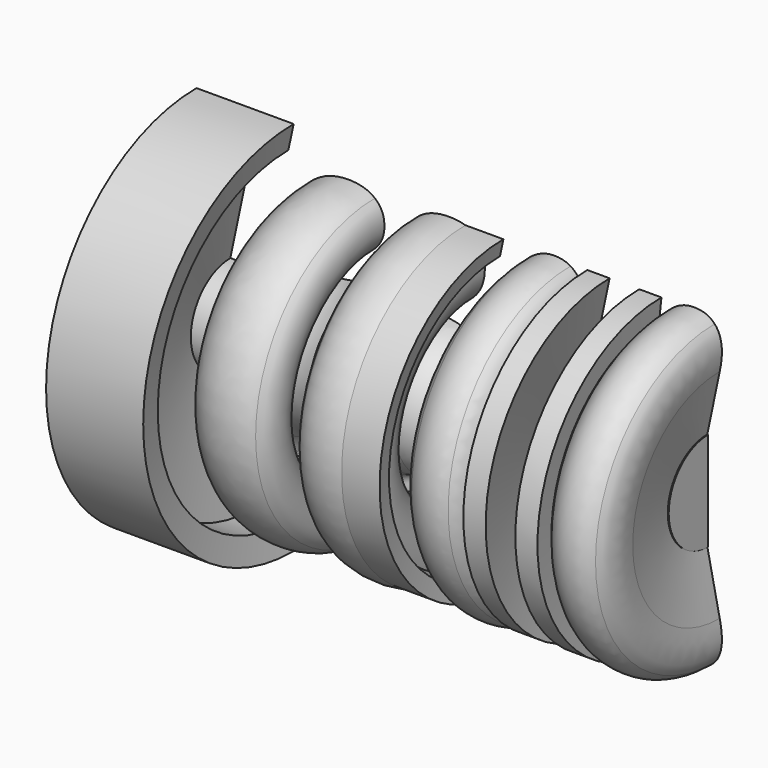
from build123d import *

# Parameters (mm, degrees)
F1_ANGLE = 180
F3_ANGLE = 180


with BuildPart() as f1:
    # F0 (on Front) → F1 (revolve)
    with BuildSketch(Plane.XZ):
        with BuildLine():
            Line((-3.9438154354, 0.9828127662), (-3.0748019926, 0))
            Line((-3.0748019926, 0), (9.5583545044, 0))
            Line((9.5583545044, 0), (11.0005527324, 1.0379456109))
            add(Edge.make_bspline(
                [(11.0005527324, 1.0379456109), (7.5266351508, 0.0315929913), (2.8494073655, 0.0315929913)],
                knots=[0.4430428114, 0.4430428114, 0.4430428114, 1, 1, 1], degree=2))
            add(Edge.make_bspline(
                [(2.8494073655, 0.0315929913), (-1.123578729, 0.0315929913), (-3.9438154354, 0.9828127662)],
                knots=[0, 0, 0, 0.6594246521, 0.6594246521, 0.6594246521], degree=2))
        make_face()
        with BuildLine():
            add(Edge.make_bspline(
                [(-3.9438154354, 0.9828127662), (-5.4003929149, 1.474092558), (-6.5494804197, 2.2191053358)],
                knots=[0.6594246521, 0.6594246521, 0.6594246521, 1, 1, 1], degree=2))
            Line((-3.9438154354, 0.9828127662), (-9.9082419355, 7.7282947327))
            add(Edge.make_bspline(
                [(-6.5494804197, 2.2191053358), (-9.6969934085, 4.2598005703), (-9.9082419355, 7.7282947327)],
                knots=[0, 0, 0, 0.9328839856, 0.9328839856, 0.9328839856], degree=2))
        make_face()
        with BuildLine():
            Line((-9.9082419355, 7.7282947327), (-3.9438154354, 0.9828127662))
            add(Edge.make_bspline(
                [(2.8494073655, 0.0315929913), (-1.123578729, 0.0315929913), (-3.9438154354, 0.9828127662)],
                knots=[0, 0, 0, 0.6594246521, 0.6594246521, 0.6594246521], degree=2))
            add(Edge.make_bspline(
                [(11.0005527324, 1.0379456109), (7.5266351508, 0.0315929913), (2.8494073655, 0.0315929913)],
                knots=[0.4430428114, 0.4430428114, 0.4430428114, 1, 1, 1], degree=2))
            Line((11.0005527324, 1.0379456109), (18.8795879243, 6.7084629062))
            add(Edge.make_bspline(
                [(20.2846222807, 12.6375963324), (20.2846222807, 9.226300747), (18.8795879243, 6.7084629062)],
                knots=[0, 0, 0, 0.5576181576, 0.5576181576, 0.5576181576], degree=2))
            add(Edge.make_bspline(
                [(18.1249172965, 17.953436712), (20.2846222807, 16.1135163714), (20.2846222807, 12.6375963324)],
                knots=[0, 0, 0, 1, 1, 1], degree=2))
            add(Edge.make_bspline(
                [(11.2472301795, 20.3958498593), (15.9652123123, 19.7933570525), (18.1249172965, 17.953436712)],
                knots=[0, 0, 0, 1, 1, 1], degree=2))
            Line((11.2472301795, 20.3958498593), (7.2800467751, 20.9241897052))
            add(Edge.make_bspline(
                [(4.7032313863, 21.5869317926), (5.574528676, 21.1559177078), (7.2800467751, 20.9241897052)],
                knots=[0, 0, 0, 1, 1, 1], degree=2))
            add(Edge.make_bspline(
                [(3.8319340965, 23.0097417286), (3.8319340965, 22.0179458775), (4.7032313863, 21.5869317926)],
                knots=[0, 0, 0, 1, 1, 1], degree=2))
            add(Edge.make_bspline(
                [(6.2697126838, 25.2621379138), (3.8319340965, 24.4835318251), (3.8319340965, 23.0097417286)],
                knots=[0, 0, 0, 1, 1, 1], degree=2))
            add(Edge.make_bspline(
                [(9.1338707959, 24.9747951905), (7.4283526968, 24.9747951905), (6.2697126838, 25.2621379138)],
                knots=[0, 0, 0, 1, 1, 1], degree=2))
            add(Edge.make_bspline(
                [(18.6625262625, 28.2653328274), (15.1587988633, 24.9747951905), (9.1338707959, 24.9747951905)],
                knots=[0, 0, 0, 1, 1, 1], degree=2))
            add(Edge.make_bspline(
                [(22.1662536618, 37.2007646074), (22.1662536618, 31.5558704642), (18.6625262625, 28.2653328274)],
                knots=[0, 0, 0, 1, 1, 1], degree=2))
            add(Edge.make_bspline(
                [(21.7027976566, 40.6210699257), (22.1662536618, 39.1102033488), (22.1662536618, 37.2007646074)],
                knots=[0, 0, 0, 1, 1, 1], degree=2))
            Line((21.7027976566, 40.6210699257), (26.745198993, 41.807517299))
            Line((26.745198993, 41.807517299), (27.7555330843, 46.6181906328))
            Line((27.7555330843, 46.6181906328), (16.3174388763, 46.6181906328))
            add(Edge.make_bspline(
                [(11.5067655424, 47.2762981602), (13.9167367694, 47.2762981602), (16.3174388763, 46.6181906328)],
                knots=[0, 0, 0, 1, 1, 1], degree=2))
            add(Edge.make_bspline(
                [(1.6166143917, 43.9023384424), (5.2501094724, 47.2762981602), (11.5067655424, 47.2762981602)],
                knots=[0, 0, 0, 1, 1, 1], degree=2))
            add(Edge.make_bspline(
                [(-2.0168806889, 34.7629860201), (-2.0168806889, 40.5283787247), (1.6166143917, 43.9023384424)],
                knots=[0, 0, 0, 1, 1, 1], degree=2))
            add(Edge.make_bspline(
                [(-1.1177760389, 30.3323466105), (-2.0168806889, 32.158363271), (-2.0168806889, 34.7629860201)],
                knots=[0, 0, 0, 1, 1, 1], degree=2))
            add(Edge.make_bspline(
                [(1.6629599922, 27.0881545742), (-0.2186713888, 28.5063299501), (-1.1177760389, 30.3323466105)],
                knots=[0, 0, 0, 1, 1, 1], degree=2))
            add(Edge.make_bspline(
                [(-2.5822970153, 24.2379001423), (-1.2938893209, 25.725593919), (1.6629599922, 27.0881545742)],
                knots=[0, 0, 0, 1, 1, 1], degree=2))
            add(Edge.make_bspline(
                [(-3.8707047097, 20.6924617026), (-3.8707047097, 22.7502063656), (-2.5822970153, 24.2379001423)],
                knots=[0, 0, 0, 1, 1, 1], degree=2))
            add(Edge.make_bspline(
                [(-1.7295379657, 16.8365077395), (-3.8707047097, 18.1990683947), (-3.8707047097, 20.6924617026)],
                knots=[0, 0, 0, 1, 1, 1], degree=2))
            add(Edge.make_bspline(
                [(-7.9398484352, 13.3188766601), (-5.956256733, 15.4461397239), (-1.7295379657, 16.8365077395)],
                knots=[0, 0, 0, 1, 1, 1], degree=2))
            add(Edge.make_bspline(
                [(-9.9234401375, 8.2347642832), (-9.9234401375, 11.1916135963), (-7.9398484352, 13.3188766601)],
                knots=[0, 0, 0, 1, 1, 1], degree=2))
            add(Edge.make_bspline(
                [(-9.9082419355, 7.7282947327), (-9.9234401375, 7.9778343407), (-9.9234401375, 8.2347642832)],
                knots=[0.9328839856, 0.9328839856, 0.9328839856, 1, 1, 1], degree=2))
        make_face()
        with BuildLine():
            add(Edge.make_bspline(
                [(3.9802400182, 14.1113864289), (0.9028921437, 13.7035451444), (-0.6728582739, 12.4614830505)],
                knots=[0, 0, 0, 1, 1, 1], degree=2))
            Line((3.9802400182, 14.1113864289), (7.2800467751, 13.7035451444))
            add(Edge.make_bspline(
                [(11.2611338597, 12.6932110531), (10.3203181692, 13.3049729799), (7.2800467751, 13.7035451444)],
                knots=[0, 0, 0, 1, 1, 1], degree=2))
            add(Edge.make_bspline(
                [(12.2019495502, 10.9598855937), (12.2019495502, 12.0814491262), (11.2611338597, 12.6932110531)],
                knots=[0, 0, 0, 1, 1, 1], degree=2))
            add(Edge.make_bspline(
                [(9.9727261653, 7.2754103524), (12.2019495502, 8.577721727), (12.2019495502, 10.9598855937)],
                knots=[0, 0, 0, 1, 1, 1], degree=2))
            add(Edge.make_bspline(
                [(3.3684780913, 5.9730989778), (7.7435027803, 5.9730989778), (9.9727261653, 7.2754103524)],
                knots=[0, 0, 0, 1, 1, 1], degree=2))
            add(Edge.make_bspline(
                [(-2.2486086915, 9.3007130951), (-2.2486086915, 5.9730989778), (3.3684780913, 5.9730989778)],
                knots=[0, 0, 0, 1, 1, 1], degree=2))
            add(Edge.make_bspline(
                [(-0.6728582739, 12.4614830505), (-2.2486086915, 11.2194209566), (-2.2486086915, 9.3007130951)],
                knots=[0, 0, 0, 1, 1, 1], degree=2))
        make_face(mode=Mode.SUBTRACT)
        with BuildLine():
            add(Edge.make_bspline(
                [(11.1916154589, 41.7519025784), (8.9577575139, 41.7519025784), (7.5812931785, 39.5319483135)],
                knots=[0, 0, 0, 1, 1, 1], degree=2))
            add(Edge.make_bspline(
                [(14.055773571, 38.3594046204), (14.055773571, 41.7519025784), (11.1916154589, 41.7519025784)],
                knots=[0, 0, 0, 1, 1, 1], degree=2))
            add(Edge.make_bspline(
                [(12.7117511559, 32.7515869576), (14.055773571, 34.9669066624), (14.055773571, 38.3594046204)],
                knots=[0, 0, 0, 1, 1, 1], degree=2))
            add(Edge.make_bspline(
                [(9.1894855165, 30.5362672528), (11.3677287409, 30.5362672528), (12.7117511559, 32.7515869576)],
                knots=[0, 0, 0, 1, 1, 1], degree=2))
            add(Edge.make_bspline(
                [(6.2048288431, 33.9843799314), (6.2048288431, 30.5362672528), (9.1894855165, 30.5362672528)],
                knots=[0, 0, 0, 1, 1, 1], degree=2))
            add(Edge.make_bspline(
                [(7.5812931785, 39.5319483135), (6.2048288431, 37.3119940487), (6.2048288431, 33.9843799314)],
                knots=[0, 0, 0, 1, 1, 1], degree=2))
        make_face(mode=Mode.SUBTRACT)
        with BuildLine():
            Line((18.8795879243, 6.7084629062), (11.0005527324, 1.0379456109))
            add(Edge.make_bspline(
                [(15.7659262301, 3.2757850277), (13.7639504282, 1.8384690673), (11.0005527324, 1.0379456109)],
                knots=[0, 0, 0, 0.4430428114, 0.4430428114, 0.4430428114], degree=2))
            add(Edge.make_bspline(
                [(18.8795879243, 6.7084629062), (17.7649153142, 4.7109566778), (15.7659262301, 3.2757850277)],
                knots=[0.5576181576, 0.5576181576, 0.5576181576, 1, 1, 1], degree=2))
        make_face()
        Polygon((-63.4340704964, 14.2874997109), (-54.6005990376, 14.2874997109), (-47.2409176752, 49.1671986614), (-37.0170782007, 49.1671986614), (-35.4227895429, 56.638109465), (-64.6761325903, 56.638109465), (-66.2704212482, 49.1671986614), (-56.0743891341, 49.1671986614), align=None)
        with BuildLine():
            add(Edge.make_bspline(
                [(-24.2349615777, 13.7035451444), (-30.3247734858, 13.7035451444), (-33.6848295234, 16.9801791011)],
                knots=[0, 0, 0, 1, 1, 1], degree=2))
            add(Edge.make_bspline(
                [(-12.9451732913, 16.1969384523), (-17.922690787, 13.7035451444), (-24.2349615777, 13.7035451444)],
                knots=[0, 0, 0, 1, 1, 1], degree=2))
            Line((-12.9451732913, 16.1969384523), (-12.9451732913, 22.778013726))
            add(Edge.make_bspline(
                [(-17.922690787, 20.8361330642), (-15.864946124, 21.3876457104), (-12.9451732913, 22.778013726)],
                knots=[0, 0, 0, 1, 1, 1], degree=2))
            add(Edge.make_bspline(
                [(-22.5016361182, 20.284620418), (-19.98043545, 20.284620418), (-17.922690787, 20.8361330642)],
                knots=[0, 0, 0, 1, 1, 1], degree=2))
            add(Edge.make_bspline(
                [(-26.7747004861, 21.8047561151), (-25.2823721494, 20.284620418), (-22.5016361182, 20.284620418)],
                knots=[0, 0, 0, 1, 1, 1], degree=2))
            add(Edge.make_bspline(
                [(-28.2670288228, 25.9573219215), (-28.2670288228, 23.3248918121), (-26.7747004861, 21.8047561151)],
                knots=[0, 0, 0, 1, 1, 1], degree=2))
            Line((-28.2670288228, 25.9573219215), (-28.2670288228, 26.5412764881))
            Line((-28.2670288228, 26.5412764881), (-28.2114141022, 27.1530384149))
            Line((-28.2114141022, 27.1530384149), (-26.7283548856, 27.1530384149))
            add(Edge.make_bspline(
                [(-12.9127313709, 30.0913494878), (-17.746577505, 27.1530384149), (-26.7283548856, 27.1530384149)],
                knots=[0, 0, 0, 1, 1, 1], degree=2))
            add(Edge.make_bspline(
                [(-8.0788852368, 38.4428267013), (-8.0788852368, 33.0296605607), (-12.9127313709, 30.0913494878)],
                knots=[0, 0, 0, 1, 1, 1], degree=2))
            add(Edge.make_bspline(
                [(-10.9430433489, 44.9173070938), (-8.0788852368, 42.5583160274), (-8.0788852368, 38.4428267013)],
                knots=[0, 0, 0, 1, 1, 1], degree=2))
            add(Edge.make_bspline(
                [(-18.9422939984, 47.2762981602), (-13.8072014609, 47.2762981602), (-10.9430433489, 44.9173070938)],
                knots=[0, 0, 0, 1, 1, 1], degree=2))
            add(Edge.make_bspline(
                [(-28.1789721818, 44.6855790912), (-24.0959247761, 47.2762981602), (-18.9422939984, 47.2762981602)],
                knots=[0, 0, 0, 1, 1, 1], degree=2))
            add(Edge.make_bspline(
                [(-34.6534525743, 37.1544190069), (-32.2620195875, 42.0948600222), (-28.1789721818, 44.6855790912)],
                knots=[0, 0, 0, 1, 1, 1], degree=2))
            add(Edge.make_bspline(
                [(-37.044885561, 26.2261264046), (-37.044885561, 32.2139779916), (-34.6534525743, 37.1544190069)],
                knots=[0, 0, 0, 1, 1, 1], degree=2))
            add(Edge.make_bspline(
                [(-33.6848295234, 16.9801791011), (-37.044885561, 20.2568130577), (-37.044885561, 26.2261264046)],
                knots=[0, 0, 0, 1, 1, 1], degree=2))
        make_face()
        with BuildLine():
            add(Edge.make_bspline(
                [(-19.4891720845, 40.9918347298), (-22.0381801131, 40.9918347298), (-24.2952108583, 38.6745547039)],
                knots=[0, 0, 0, 1, 1, 1], degree=2))
            add(Edge.make_bspline(
                [(-16.4489006905, 38.238906059), (-16.4489006905, 40.9918347298), (-19.4891720845, 40.9918347298)],
                knots=[0, 0, 0, 1, 1, 1], degree=2))
            add(Edge.make_bspline(
                [(-18.9515631185, 34.4339322564), (-16.4489006905, 35.8382039522), (-16.4489006905, 38.238906059)],
                knots=[0, 0, 0, 1, 1, 1], degree=2))
            add(Edge.make_bspline(
                [(-25.9497487968, 33.0296605607), (-21.4542255465, 33.0296605607), (-18.9515631185, 34.4339322564)],
                knots=[0, 0, 0, 1, 1, 1], degree=2))
            Line((-25.9497487968, 33.0296605607), (-27.2474256114, 33.0296605607))
            add(Edge.make_bspline(
                [(-24.2952108583, 38.6745547039), (-26.5522416036, 36.357274678), (-27.2474256114, 33.0296605607)],
                knots=[0, 0, 0, 1, 1, 1], degree=2))
        make_face(mode=Mode.SUBTRACT)
        with BuildLine():
            add(Edge.make_bspline(
                [(37.2656503108, 13.7035451444), (33.001855063, 13.7035451444), (30.5548073557, 16.7901621389)],
                knots=[0, 0, 0, 1, 1, 1], degree=2))
            add(Edge.make_bspline(
                [(46.5069630542, 18.4864111179), (42.6232017307, 13.7035451444), (37.2656503108, 13.7035451444)],
                knots=[0, 0, 0, 1, 1, 1], degree=2))
            Line((46.5069630542, 18.4864111179), (46.6181924955, 18.4864111179))
            Line((46.6181924955, 18.4864111179), (46.2103512109, 14.2874997109))
            Line((46.2103512109, 14.2874997109), (52.8470412052, 14.2874997109))
            Line((52.8470412052, 14.2874997109), (59.7432665624, 46.6738053534))
            Line((59.7432665624, 46.6738053534), (53.0231544872, 46.6738053534))
            Line((53.0231544872, 46.6738053534), (51.3732511087, 42.5305086671))
            Line((51.3732511087, 42.5305086671), (51.1415231061, 42.5305086671))
            add(Edge.make_bspline(
                [(47.9668494706, 46.0620434266), (50.0106904534, 44.847788693), (51.1415231061, 42.5305086671)],
                knots=[0, 0, 0, 1, 1, 1], degree=2))
            add(Edge.make_bspline(
                [(43.1144650962, 47.2762981602), (45.9230084877, 47.2762981602), (47.9668494706, 46.0620434266)],
                knots=[0, 0, 0, 1, 1, 1], degree=2))
            add(Edge.make_bspline(
                [(35.6713616529, 44.4260437283), (39.0638596109, 47.2762981602), (43.1144650962, 47.2762981602)],
                knots=[0, 0, 0, 1, 1, 1], degree=2))
            add(Edge.make_bspline(
                [(30.1933116716, 36.3758129182), (32.278863695, 41.5757892964), (35.6713616529, 44.4260437283)],
                knots=[0, 0, 0, 1, 1, 1], degree=2))
            add(Edge.make_bspline(
                [(28.1077596483, 25.4382511957), (28.1077596483, 31.17583654), (30.1933116716, 36.3758129182)],
                knots=[0, 0, 0, 1, 1, 1], degree=2))
            add(Edge.make_bspline(
                [(30.5548073557, 16.7901621389), (28.1077596483, 19.8767791335), (28.1077596483, 25.4382511957)],
                knots=[0, 0, 0, 1, 1, 1], degree=2))
        make_face()
        with BuildLine():
            add(Edge.make_bspline(
                [(40.6859556291, 20.7480764232), (42.6788164514, 20.7480764232), (44.5326404721, 22.689957085)],
                knots=[0, 0, 0, 1, 1, 1], degree=2))
            add(Edge.make_bspline(
                [(37.914488718, 22.0225804375), (38.8877463289, 20.7480764232), (40.6859556291, 20.7480764232)],
                knots=[0, 0, 0, 1, 1, 1], degree=2))
            add(Edge.make_bspline(
                [(36.9412311071, 25.8460924803), (36.9412311071, 23.2970844518), (37.914488718, 22.0225804375)],
                knots=[0, 0, 0, 1, 1, 1], degree=2))
            add(Edge.make_bspline(
                [(38.002545359, 32.6218192761), (36.9412311071, 29.2015139579), (36.9412311071, 25.8460924803)],
                knots=[0, 0, 0, 1, 1, 1], degree=2))
            add(Edge.make_bspline(
                [(40.8435306708, 38.1276766178), (39.0638596109, 36.0421245944), (38.002545359, 32.6218192761)],
                knots=[0, 0, 0, 1, 1, 1], degree=2))
            add(Edge.make_bspline(
                [(44.5882551927, 40.2132286411), (42.6232017307, 40.2132286411), (40.8435306708, 38.1276766178)],
                knots=[0, 0, 0, 1, 1, 1], degree=2))
            add(Edge.make_bspline(
                [(47.5312008257, 38.864571666), (46.4142718532, 40.2132286411), (44.5882551927, 40.2132286411)],
                knots=[0, 0, 0, 1, 1, 1], degree=2))
            add(Edge.make_bspline(
                [(48.6481297982, 35.4581700279), (48.6481297982, 37.5159146909), (47.5312008257, 38.864571666)],
                knots=[0, 0, 0, 1, 1, 1], degree=2))
            add(Edge.make_bspline(
                [(47.5172971455, 27.9455481838), (48.6481297982, 31.2592586209), (48.6481297982, 35.4581700279)],
                knots=[0, 0, 0, 1, 1, 1], degree=2))
            add(Edge.make_bspline(
                [(44.5326404721, 22.689957085), (46.3864644929, 24.6318377467), (47.5172971455, 27.9455481838)],
                knots=[0, 0, 0, 1, 1, 1], degree=2))
        make_face(mode=Mode.SUBTRACT)
        with BuildLine():
            Line((80.3392514329, 14.2874997109), (89.0522243305, 14.2874997109))
            Line((89.0522243305, 14.2874997109), (92.9081782936, 32.7423178375))
            add(Edge.make_bspline(
                [(93.5755549411, 37.9515633358), (93.5755549411, 35.8382039522), (92.9081782936, 32.7423178375)],
                knots=[0, 0, 0, 1, 1, 1], degree=2))
            add(Edge.make_bspline(
                [(91.3880425966, 44.8616923732), (93.5755549411, 42.4470865861), (93.5755549411, 37.9515633358)],
                knots=[0, 0, 0, 1, 1, 1], degree=2))
            add(Edge.make_bspline(
                [(85.2055394874, 47.2762981602), (89.2005302521, 47.2762981602), (91.3880425966, 44.8616923732)],
                knots=[0, 0, 0, 1, 1, 1], degree=2))
            add(Edge.make_bspline(
                [(74.9168161722, 40.6766846463), (79.1435349396, 47.2762981602), (85.2055394874, 47.2762981602)],
                knots=[0, 0, 0, 1, 1, 1], degree=2))
            Line((74.9168161722, 40.6766846463), (74.7407028903, 40.6766846463))
            Line((74.7407028903, 40.6766846463), (75.3524648171, 46.6738053534))
            Line((75.3524648171, 46.6738053534), (68.6879674625, 46.6738053534))
            Line((68.6879674625, 46.6738053534), (61.8288185857, 14.2874997109))
            Line((61.8288185857, 14.2874997109), (70.5417914833, 14.2874997109))
            Line((70.5417914833, 14.2874997109), (73.3874113551, 27.6999165011))
            add(Edge.make_bspline(
                [(76.8030821134, 36.9087873241), (74.629473449, 33.6043460071), (73.3874113551, 27.6999165011)],
                knots=[0, 0, 0, 1, 1, 1], degree=2))
            add(Edge.make_bspline(
                [(81.6369282475, 40.2132286411), (78.9766907777, 40.2132286411), (76.8030821134, 36.9087873241)],
                knots=[0, 0, 0, 1, 1, 1], degree=2))
            add(Edge.make_bspline(
                [(84.7698908425, 36.6538865213), (84.7698908425, 40.2132286411), (81.6369282475, 40.2132286411)],
                knots=[0, 0, 0, 1, 1, 1], degree=2))
            add(Edge.make_bspline(
                [(84.3064348373, 33.2057738427), (84.7698908425, 35.1708273047), (84.7698908425, 36.6538865213)],
                knots=[0, 0, 0, 1, 1, 1], degree=2))
            Line((84.3064348373, 33.2057738427), (80.3392514329, 14.2874997109))
        make_face()
    revolve(axis=Axis((12.7166472375, 0, 0), (1, 0, 0)), revolution_arc=F1_ANGLE)

    # F2 (on Front) → F3 (revolve)
    with BuildSketch(Plane.XZ):
        Polygon((-63.351303339, 0), (89.4497483969, 0), (89.4497483969, 14.8890791461), (35.0068546832, 14.8890791461), (13.951591216, 4.0606581606), (-6.5020946786, 4.0606581606), (-17.9320927709, 14.8890791461), (-63.351303339, 14.8890791461), align=None)
    revolve(axis=Axis((13.0492225289, 0, 0), (1, 0, 0)), revolution_arc=F3_ANGLE)


solid = f1.part
